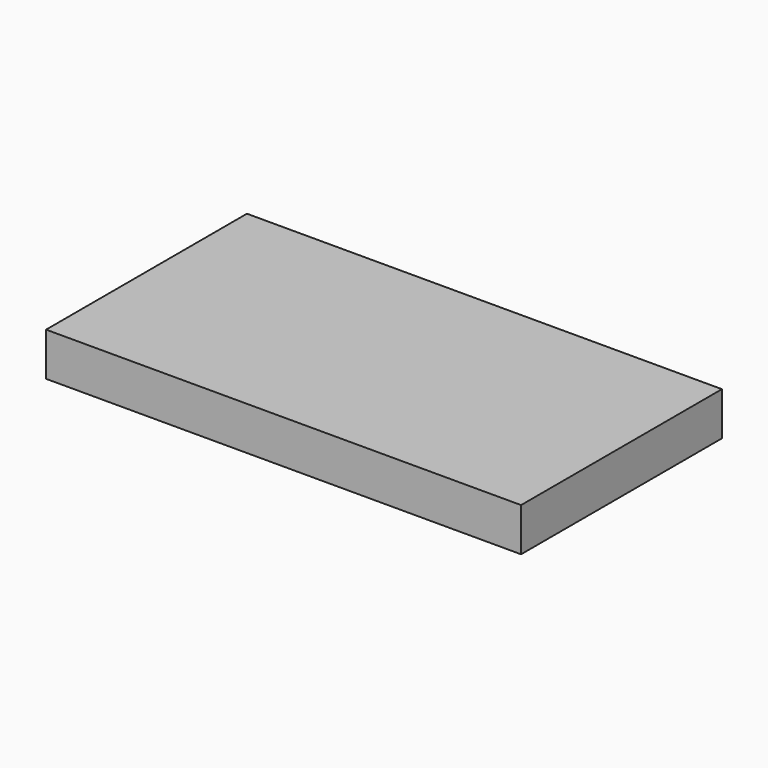
from build123d import *

# Parameters (mm, degrees)
F0_W     = 72.3581146449
F0_H     = 38.2464341819
F0_R     = 8.3369521155
F0_R_2   = 4.4778063471
F1_DEPTH = 6.6


with BuildPart() as f1:
    # F0 (on Top) → F1 (new body)
    with BuildSketch(Plane.XY):
        with Locations((-2.1582015324, 0.7711771177)):
            Rectangle(F0_W, F0_H)
        with Locations((-6.4561231993, 5.129121244)):
            Circle(F0_R, mode=Mode.SUBTRACT)
        with Locations((-6.4561231993, 5.129121244)):
            Circle(F0_R)
        with Locations((-6.4561231993, 5.129121244)):
            Circle(F0_R_2, mode=Mode.SUBTRACT)
        with Locations((-6.4561231993, 5.129121244)):
            Circle(F0_R_2)
    extrude(amount=-F1_DEPTH)


solid = f1.part
